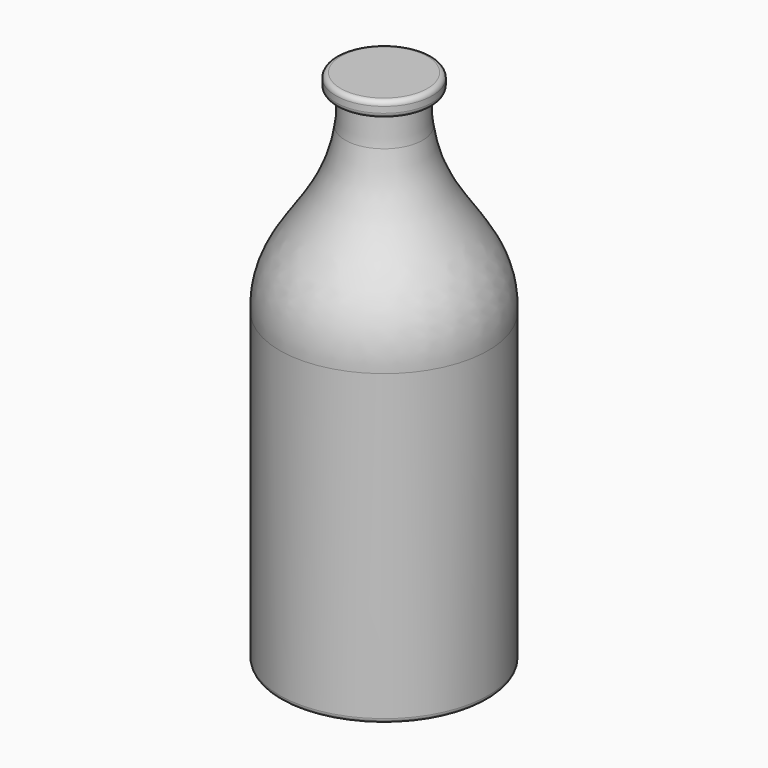
from build123d import *

# Parameters (mm, degrees)
F0_W = 27.4674350193
F0_H = 81.2209066684
F5_R = 1.27


with BuildPart() as f1:
    # F0 (on Front) → F1 (revolve)
    with BuildSketch(Plane.XZ):
        with Locations((-13.7337175096, -0.5906961542)):
            Rectangle(F0_W, F0_H)
    revolve(axis=Axis((0, 0, -0.5906961542), (0, 0, 1)))

    # F0 (on Front) → F2 (revolve)
    with BuildSketch(Plane.XZ):
        with BuildLine():
            Line((-27.4674350193, 40.0197571801), (0, 40.0197571801))
            Line((0, 40.0197571801), (0, 83.1406737302))
            Line((0, 83.1406737302), (-10.1947877868, 83.1406737302))
            add(Edge.make_bspline(
                [(-10.1947877868, 83.1406737302), (-13.0487030437, 62.5508222314), (-28.143446303, 58.3851752324), (-27.4674350193, 40.0197571801)],
                knots=[5.8791278865, 5.8791278865, 5.8791278865, 5.8791278865, 54.3602169565, 54.3602169565, 54.3602169565, 54.3602169565], degree=3))
        make_face()
    revolve(axis=Axis((0, 0, 65.7150976558), (0, 0, 1)))

    # F0 (on Front) → F3 (revolve)
    with BuildSketch(Plane.XZ):
        with BuildLine():
            Line((-10.1947877868, 83.1406737302), (0, 83.1406737302))
            Line((0, 83.1406737302), (0, 91.4104381316))
            Line((0, 91.4104381316), (-9.746512388, 91.4104381316))
            add(Edge.make_bspline(
                [(-9.746512388, 91.4104381316), (-9.6826276693, 88.3759155541), (-9.8487037137, 85.6375312152), (-10.1947877868, 83.1406737302)],
                knots=[0, 0, 0, 0, 5.8791278865, 5.8791278865, 5.8791278865, 5.8791278865], degree=3))
        make_face()
    revolve(axis=Axis((0, 0, 65.7150976558), (0, 0, 1)))

    # F0 (on Front) → F4 (revolve)
    with BuildSketch(Plane.XZ):
        Polygon((-9.746512388, 91.4104381316), (0, 91.4104381316), (0, 95.5453233728), (-12.7, 95.5453233728), (-12.7, 91.4104381316), align=None)
    revolve(axis=Axis((0, 0, 93.4778807522), (0, 0, 1)))

    # F5
    f5_edges = [f1.edges().sort_by_distance(p)[0] for p in [
        (12.7, 0, 91.410438),
        (12.7, 0, 95.545323),
        (27.467435, 0, -41.201149),
    ]]
    fillet(f5_edges, radius=F5_R)


solid = f1.part
